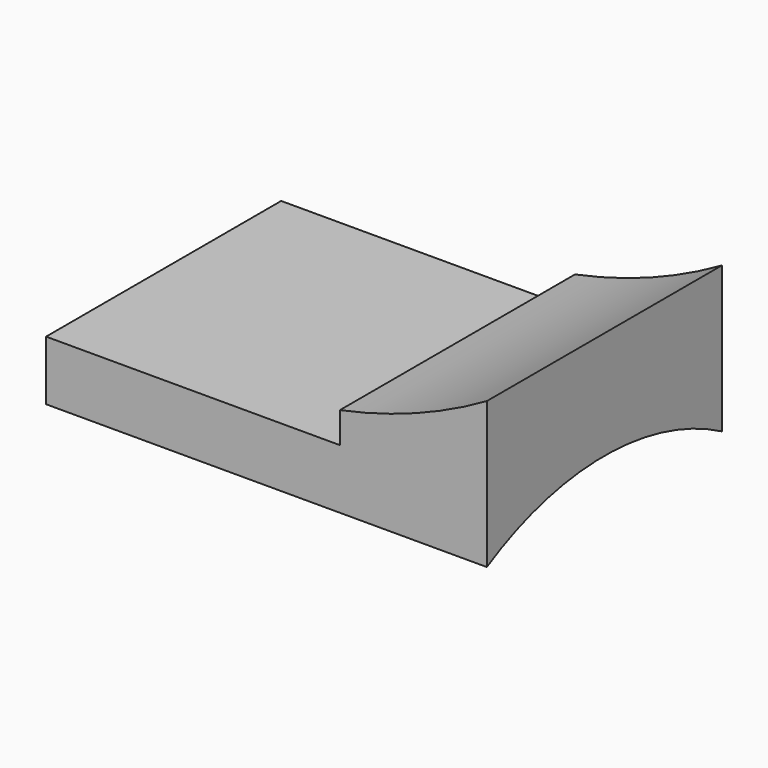
from build123d import *

# Parameters (mm, degrees)
F1_DEPTH = 9.525
F3_DEPTH = 28.576


with BuildPart() as f1:
    # F0 (on Front) → F1 (new body, symmetric)
    with BuildSketch(Plane.XZ):
        with BuildLine():
            Line((-28.575, 0), (0, 0))
            Line((0, 0), (0, 9.4742))
            ThreePointArc((0, 9.4742), (-4.6166840853, 7.2835932452), (-9.525, 5.8619868368))
            Line((-9.525, 5.8619868368), (-9.525, 3.8608))
            Line((-9.525, 3.8608), (-28.575, 3.8608))
            Line((-28.575, 3.8608), (-28.575, 0))
        make_face()
    extrude(amount=F1_DEPTH, both=True)

    # F2 (on face) → F3 (cut, through all)
    with BuildSketch(Plane.YZ):
        with BuildLine():
            ThreePointArc((9.525, 0), (0, 2.4761459145), (-9.525, 0))
            Line((-9.525, 0), (9.525, 0))
        make_face()
    extrude(amount=-F3_DEPTH, mode=Mode.SUBTRACT)


solid = f1.part
